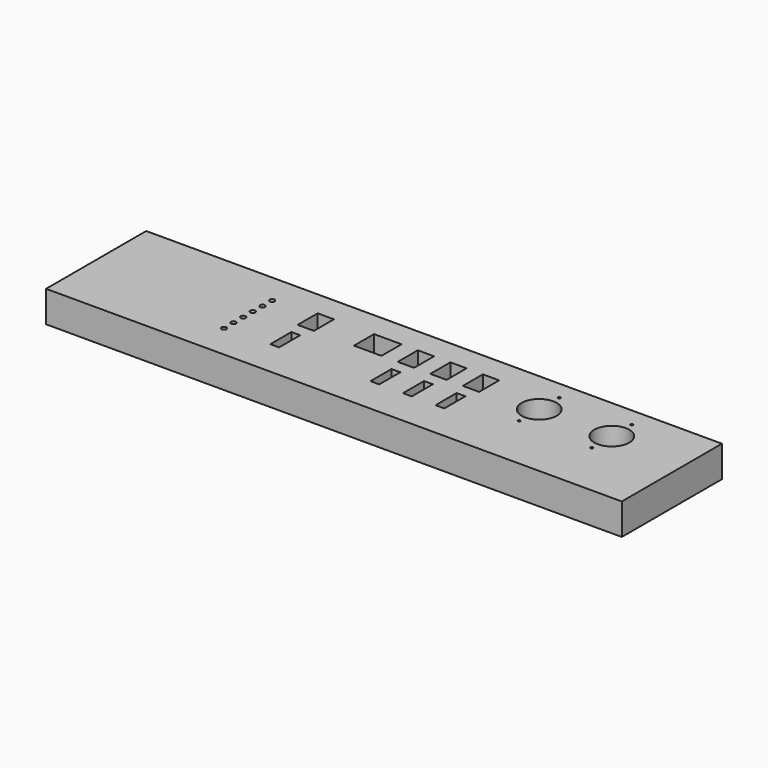
from build123d import *

# Parameters (mm, degrees)
F0_W     = 460
F0_H     = 100
F0_R     = 2
F0_W_2   = 7
F0_H_2   = 21
F0_R_2   = 1
F0_W_3   = 13
F0_H_3   = 20
F0_W_4   = 22
F0_R_3   = 14
F1_DEPTH = 25


with BuildPart() as f1:
    # F0 (on Top) → F1 (new body)
    with BuildSketch(Plane.XY):
        with Locations((-230, -50)):
            Rectangle(F0_W, F0_H)
        with Locations((-340, -72.3)):
            Circle(F0_R, mode=Mode.SUBTRACT)
        with Locations((-340, -62.7)):
            Circle(F0_R, mode=Mode.SUBTRACT)
        with Locations((-300.5, -60.5)):
            Rectangle(F0_W_2, F0_H_2, mode=Mode.SUBTRACT)
        with Locations((-340, -53.1)):
            Circle(F0_R, mode=Mode.SUBTRACT)
        with Locations((-220.5, -60.5)):
            Rectangle(F0_W_2, F0_H_2, mode=Mode.SUBTRACT)
        with Locations((-194.5, -60.5)):
            Rectangle(F0_W_2, F0_H_2, mode=Mode.SUBTRACT)
        with Locations((-168.5, -60.5)):
            Rectangle(F0_W_2, F0_H_2, mode=Mode.SUBTRACT)
        with Locations((-118, -55)):
            Circle(F0_R_2, mode=Mode.SUBTRACT)
        with Locations((-60, -55)):
            Circle(F0_R_2, mode=Mode.SUBTRACT)
        with Locations((-340, -43.5)):
            Circle(F0_R, mode=Mode.SUBTRACT)
        with Locations((-340, -33.9)):
            Circle(F0_R, mode=Mode.SUBTRACT)
        with Locations((-300.5, -30)):
            Rectangle(F0_W_3, F0_H_3, mode=Mode.SUBTRACT)
        with Locations((-251, -30)):
            Rectangle(F0_W_4, F0_H_3, mode=Mode.SUBTRACT)
        with Locations((-340, -24.3)):
            Circle(F0_R, mode=Mode.SUBTRACT)
        with Locations((-220.5, -30)):
            Rectangle(F0_W_3, F0_H_3, mode=Mode.SUBTRACT)
        with Locations((-194.5, -30)):
            Rectangle(F0_W_3, F0_H_3, mode=Mode.SUBTRACT)
        with Locations((-118, -35)):
            Circle(F0_R_3, mode=Mode.SUBTRACT)
        with Locations((-168.5, -30)):
            Rectangle(F0_W_3, F0_H_3, mode=Mode.SUBTRACT)
        with Locations((-60, -35)):
            Circle(F0_R_3, mode=Mode.SUBTRACT)
        with Locations((-118, -15)):
            Circle(F0_R_2, mode=Mode.SUBTRACT)
        with Locations((-60, -15)):
            Circle(F0_R_2, mode=Mode.SUBTRACT)
    extrude(amount=F1_DEPTH)


solid = f1.part
